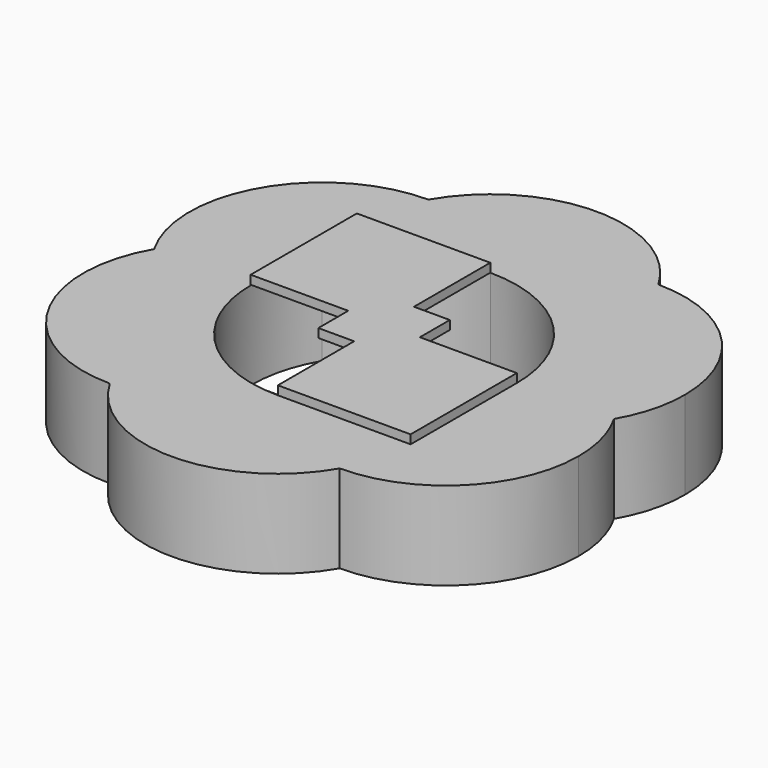
from build123d import *

# Parameters (mm, degrees)
F1_DEPTH = 25.4
F2_W     = 10.3401243687
F2_H     = 10.7896951959
F3_DEPTH = 2.54
F4_W     = 10.3547675535
F4_H     = 10.7866246253
F5_DEPTH = 2.54


with BuildPart() as f1:
    # F0 (on Top) → F1 (new body)
    with BuildSketch(Plane.XY):
        with BuildLine():
            ThreePointArc((33.1865631623, 19.1602711752), (37.0148015337, 9.918086179), (38.3205423505, 0))
            ThreePointArc((38.3205423505, 0), (37.0148015337, -9.918086179), (33.1865631623, -19.1602711752))
            ThreePointArc((33.1865631623, -19.1602711752), (52.3468343375, -14.0262919871), (66.3731263246, 0))
            ThreePointArc((66.3731263246, 0), (52.3468343375, 14.0262919871), (33.1865631623, 19.1602711752))
        make_face()
        with BuildLine():
            ThreePointArc((0, 38.3205423505), (19.1602711752, 33.1865631623), (33.1865631623, 19.1602711752))
            ThreePointArc((33.1865631623, 19.1602711752), (37.0148015337, 28.4024561715), (38.3205423505, 38.3205423505))
            ThreePointArc((38.3205423505, 38.3205423505), (37.0148015337, 48.2386285294), (33.1865631623, 57.4808135257))
            ThreePointArc((33.1865631623, 57.4808135257), (14.0262919871, 52.3468343375), (0, 38.3205423505))
        make_face()
        with BuildLine():
            ThreePointArc((38.3205423505, 38.3205423505), (37.0148015337, 28.4024561715), (33.1865631623, 19.1602711752))
            ThreePointArc((33.1865631623, 19.1602711752), (52.3468343375, 14.0262919871), (66.3731263246, 0))
            ThreePointArc((66.3731263246, 0), (70.201364696, 9.2421849963), (71.5071055127, 19.1602711752))
            ThreePointArc((71.5071055127, 19.1602711752), (60.283278517, 46.25698653), (33.1865631623, 57.4808135257))
            ThreePointArc((33.1865631623, 57.4808135257), (37.0148015337, 48.2386285294), (38.3205423505, 38.3205423505))
        make_face()
        with BuildLine():
            ThreePointArc((38.3205423505, -38.3205423505), (37.0148015337, -28.4024561715), (33.1865631623, -19.1602711752))
            ThreePointArc((33.1865631623, -19.1602711752), (19.1602711752, -33.1865631623), (0, -38.3205423505))
            ThreePointArc((0, -38.3205423505), (14.0262919871, -52.3468343375), (33.1865631623, -57.4808135257))
            ThreePointArc((33.1865631623, -57.4808135257), (37.0148015337, -48.2386285294), (38.3205423505, -38.3205423505))
        make_face()
        with BuildLine():
            ThreePointArc((66.3731263246, 0), (52.3468343375, -14.0262919871), (33.1865631623, -19.1602711752))
            ThreePointArc((33.1865631623, -19.1602711752), (37.0148015337, -28.4024561715), (38.3205423505, -38.3205423505))
            ThreePointArc((38.3205423505, -38.3205423505), (37.0148015337, -48.2386285294), (33.1865631623, -57.4808135257))
            ThreePointArc((33.1865631623, -57.4808135257), (60.283278517, -46.25698653), (71.5071055127, -19.1602711752))
            ThreePointArc((71.5071055127, -19.1602711752), (70.201364696, -9.2421849963), (66.3731263246, 0))
        make_face()
        with BuildLine():
            ThreePointArc((-33.1865631623, 57.4808135257), (-14.0262919871, 52.3468343375), (0, 38.3205423505))
            ThreePointArc((0, 38.3205423505), (14.0262919871, 52.3468343375), (33.1865631623, 57.4808135257))
            ThreePointArc((33.1865631623, 57.4808135257), (0, 76.6410847009), (-33.1865631623, 57.4808135257))
        make_face()
        with BuildLine():
            ThreePointArc((-33.1865631623, 19.1602711752), (-19.1602711752, 33.1865631623), (0, 38.3205423505))
            ThreePointArc((0, 38.3205423505), (-14.0262919871, 52.3468343375), (-33.1865631623, 57.4808135257))
            ThreePointArc((-33.1865631623, 57.4808135257), (-38.3205423505, 38.3205423505), (-33.1865631623, 19.1602711752))
        make_face()
        with BuildLine():
            ThreePointArc((-33.1865631623, -57.4808135257), (-14.0262919871, -52.3468343375), (0, -38.3205423505))
            ThreePointArc((0, -38.3205423505), (-19.1602711752, -33.1865631623), (-33.1865631623, -19.1602711752))
            ThreePointArc((-33.1865631623, -19.1602711752), (-38.3205423505, -38.3205423505), (-33.1865631623, -57.4808135257))
        make_face()
        with BuildLine():
            ThreePointArc((33.1865631623, -57.4808135257), (14.0262919871, -52.3468343375), (0, -38.3205423505))
            ThreePointArc((0, -38.3205423505), (-14.0262919871, -52.3468343375), (-33.1865631623, -57.4808135257))
            ThreePointArc((-33.1865631623, -57.4808135257), (0, -76.6410847009), (33.1865631623, -57.4808135257))
        make_face()
        with BuildLine():
            ThreePointArc((-66.3731263246, 0), (-52.3468343375, 14.0262919871), (-33.1865631623, 19.1602711752))
            ThreePointArc((-33.1865631623, 19.1602711752), (-38.3205423505, 38.3205423505), (-33.1865631623, 57.4808135257))
            ThreePointArc((-33.1865631623, 57.4808135257), (-66.3731263246, 38.3205423505), (-66.3731263246, 0))
        make_face()
        with BuildLine():
            ThreePointArc((-33.1865631623, -19.1602711752), (-38.3205423505, 0), (-33.1865631623, 19.1602711752))
            ThreePointArc((-33.1865631623, 19.1602711752), (-52.3468343375, 14.0262919871), (-66.3731263246, 0))
            ThreePointArc((-66.3731263246, 0), (-52.3468343375, -14.0262919871), (-33.1865631623, -19.1602711752))
        make_face()
        with BuildLine():
            ThreePointArc((-33.1865631623, -57.4808135257), (-38.3205423505, -38.3205423505), (-33.1865631623, -19.1602711752))
            ThreePointArc((-33.1865631623, -19.1602711752), (-52.3468343375, -14.0262919871), (-66.3731263246, 0))
            ThreePointArc((-66.3731263246, 0), (-66.3731263246, -38.3205423505), (-33.1865631623, -57.4808135257))
        make_face()
    extrude(amount=F1_DEPTH)

    # F2 (on face) → F3 (join)
    with BuildSketch(Plane.XY.offset(25.4)):
        with Locations((-5.1700621843, -5.3948475979)):
            Rectangle(F2_W, F2_H)
        with Locations((-5.1700621843, 5.3948475979)):
            Rectangle(F2_W, F2_H)
        with Locations((5.1700621843, 5.3948475979)):
            Rectangle(F2_W, F2_H)
        with Locations((5.1700621843, -5.3948475979)):
            Rectangle(F2_W, F2_H)
        Polygon((-38.5132133961, 0), (-10.3401243687, 0), (-10.3401243687, 10.7896951959), (0, 10.7896951959), (0, 38.3205423505), (-38.5132133961, 38.3205423505), align=None)
        Polygon((38.3205423505, 0), (10.3401243687, 0), (10.3401243687, -10.7896951959), (0, -10.7896951959), (0, -38.3205423505), (38.3205423505, -38.3205423505), align=None)
    extrude(amount=F3_DEPTH)

    # F4 (on face) → F5 (join)
    with BuildSketch(Plane(origin=(0, 0, 0), x_dir=(1, 0, 0), z_dir=(0, 0, -1))):
        Polygon((0, 10.7866246253), (0, 38.3205423505), (-38.3205423505, 38.3205423505), (-38.3205423505, 0), (-10.3547675535, 0), (-10.3547675535, 10.7866246253), align=None)
        with Locations((5.1773837768, 5.3933123127)):
            Rectangle(F4_W, F4_H)
        with Locations((-5.1773837768, 5.3933123127)):
            Rectangle(F4_W, F4_H)
        with Locations((-5.1773837768, -5.3933123127)):
            Rectangle(F4_W, F4_H)
        with Locations((5.1773837768, -5.3933123127)):
            Rectangle(F4_W, F4_H)
        Polygon((38.3205423505, 0), (10.3547675535, 0), (10.3547675535, -10.7866246253), (0, -10.7866246253), (0, -38.3205423505), (38.3205423505, -38.3205423505), align=None)
    extrude(amount=F5_DEPTH)


solid = f1.part
